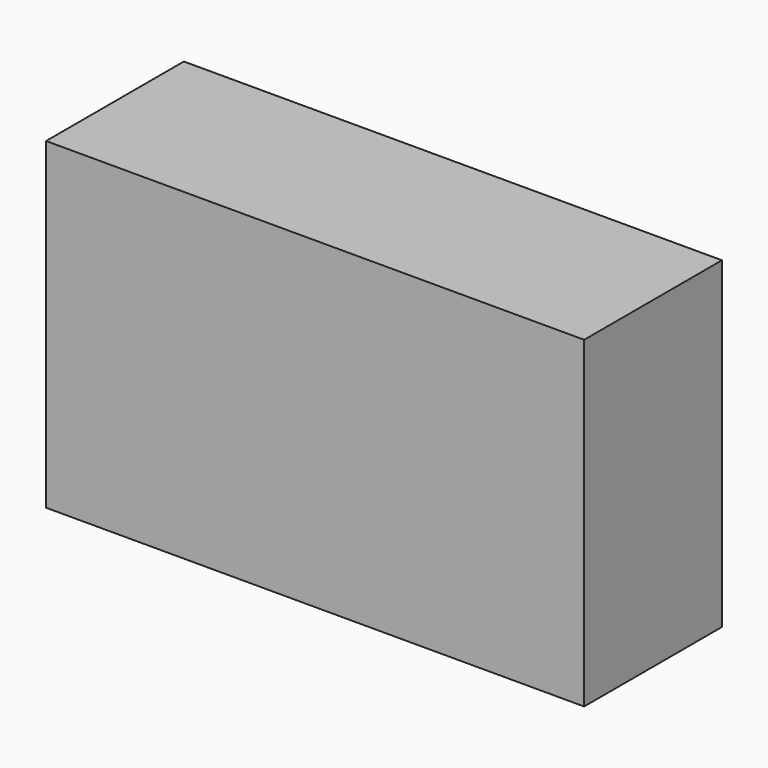
from build123d import *

# Parameters (mm, degrees)
F0_W     = 63.5
F0_H     = 76.2
F1_DEPTH = 40.64


with BuildPart() as f1:
    # F0 (on Front) → F1 (new body)
    with BuildSketch(Plane.XZ):
        with Locations((31.75, 0)):
            Rectangle(F0_W, F0_H)
        with Locations((-31.75, 0)):
            Rectangle(F0_W, F0_H)
    extrude(amount=-F1_DEPTH)


solid = f1.part
